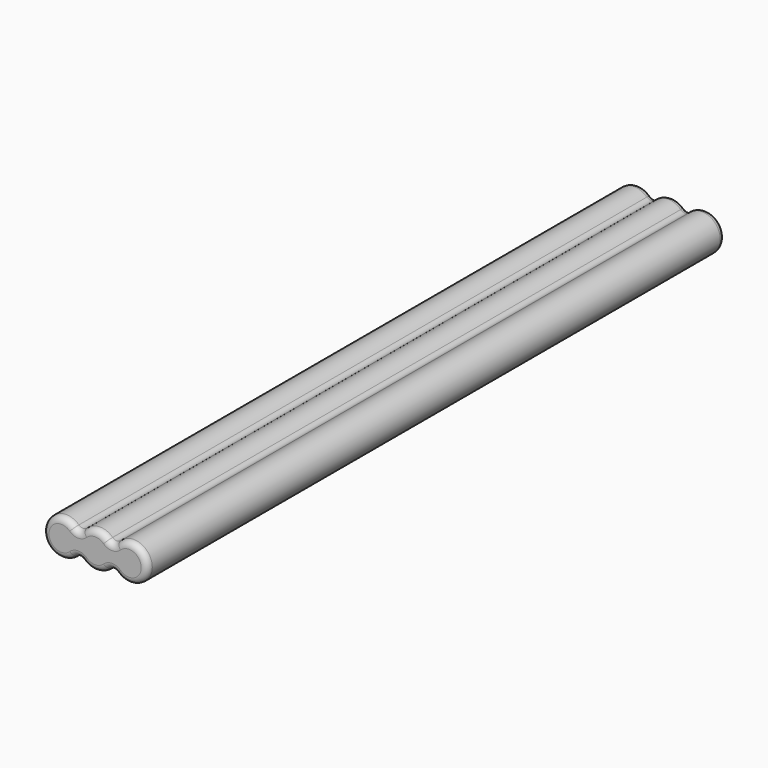
from build123d import *

# Parameters (mm, degrees)
F1_DEPTH = 74.6125
F2_R     = 1.27


with BuildPart() as f1:
    # F0 (on Front) → F1 (new body, symmetric)
    with BuildSketch(Plane.XZ):
        with BuildLine():
            ThreePointArc((3.4925, -1.522677), (10.795, 0), (3.4925, 1.522677))
            ThreePointArc((3.4925, 1.522677), (0, 3.81), (-3.4925, 1.522677))
            ThreePointArc((-3.4925, 1.522677), (-10.795, 0), (-3.4925, -1.522677))
            ThreePointArc((-3.4925, -1.522677), (0, -3.81), (3.4925, -1.522677))
        make_face()
    extrude(amount=F1_DEPTH, both=True)

    # F2
    f2_edges = [f1.edges().sort_by_distance(p)[0] for p in [
        (-3.4925, 0, 1.522677),
        (3.4925, 0, 1.522677),
        (-3.4925, 0, -1.522677),
        (3.4925, 0, -1.522677),
        (0, 74.6125, -3.81),
        (10.795, 74.6125, 0),
        (0, 74.6125, 3.81),
        (-10.795, 74.6125, 0),
        (0, -74.6125, -3.81),
        (10.795, -74.6125, 0),
        (0, -74.6125, 3.81),
        (-10.795, -74.6125, 0),
    ]]
    fillet(f2_edges, radius=F2_R)


solid = f1.part
